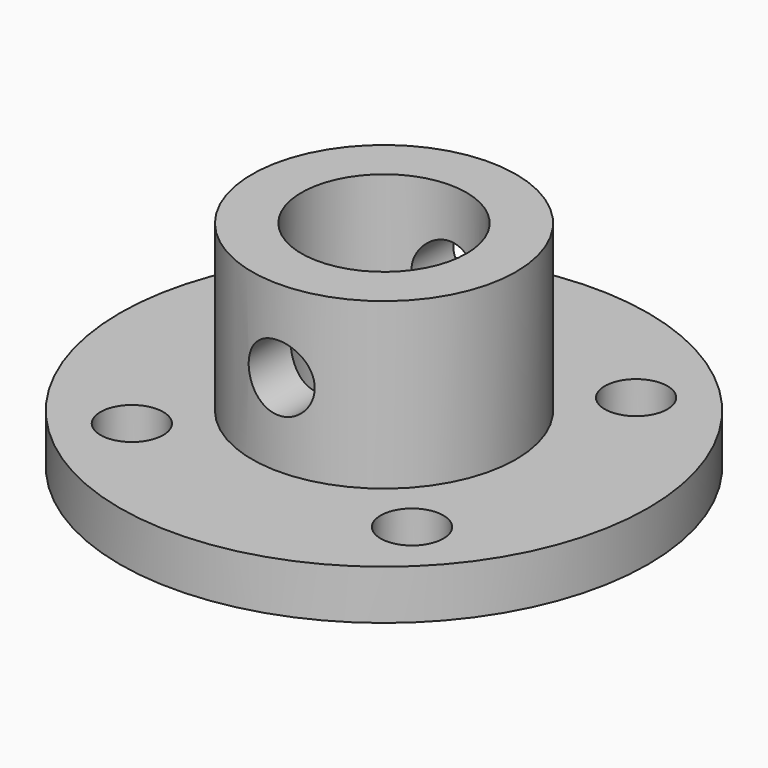
from build123d import *

# Parameters (mm, degrees)
SKETCH064_R     = 1.9
POCKET002_DEPTH = 3
SKETCH065_R     = 2
POCKET003_DEPTH = 8


with BuildPart() as part:
    # Sketch063 → Revolution002 (revolve)
    with BuildSketch(Plane.XZ):
        Polygon((5, 13), (5, 0), (16, 0), (16, 3), (8, 3), (8, 13), align=None)
    revolve(axis=Axis((0, 0, 0), (0, 0, 1)))

    # Sketch064 → Pocket002 (cut)
    with BuildSketch(Plane.XY):
        with Locations((-8.485281, 8.485281)):
            Circle(SKETCH064_R)
        with Locations((8.485281, 8.485281)):
            Circle(SKETCH064_R)
        with Locations((8.485281, -8.485281)):
            Circle(SKETCH064_R)
        with Locations((-8.485281, -8.485281)):
            Circle(SKETCH064_R)
    extrude(amount=POCKET002_DEPTH, mode=Mode.SUBTRACT)

    # Sketch065 → Pocket003 (cut, symmetric)
    with BuildSketch(Plane.XZ):
        with Locations((0, 8)):
            Circle(SKETCH065_R)
    extrude(amount=POCKET003_DEPTH, both=True, mode=Mode.SUBTRACT)


with BuildPart() as part_1:
    # Body003 placement: moved
    add(part.part.moved(Location((0, 0, -54.75))))


solid = part_1.part
